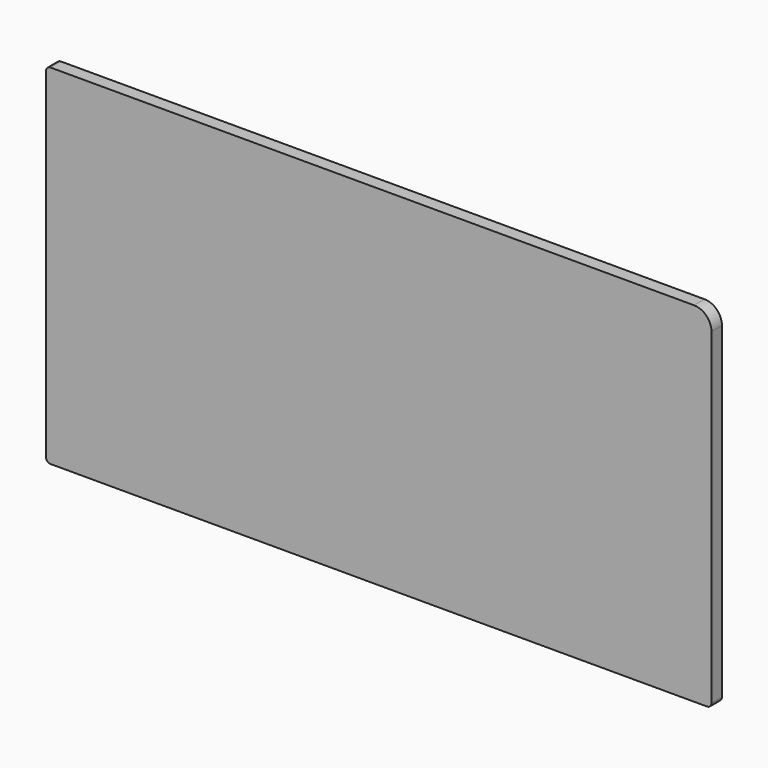
from build123d import *

# Parameters (mm, degrees)
F1_DEPTH = 1.5
F2_R     = 1


with BuildPart() as f1:
    # F0 (on Front) → F1 (new body, symmetric)
    with BuildSketch(Plane.XZ):
        with BuildLine():
            Line((0, 80), (0, 0))
            Line((0, 0), (152.5, 0))
            Line((152.5, 0), (152.5, 76))
            ThreePointArc((152.5, 76), (151.328427, 78.828427), (148.5, 80))
            Line((148.5, 80), (0, 80))
        make_face()
    extrude(amount=F1_DEPTH, both=True)

    # F2
    f2_edges = [f1.edges().sort_by_distance(p)[0] for p in [
        (152.5, 0, 0),
        (0, 0, 80),
        (0, 0, 0),
    ]]
    fillet(f2_edges, radius=F2_R)


solid = f1.part
